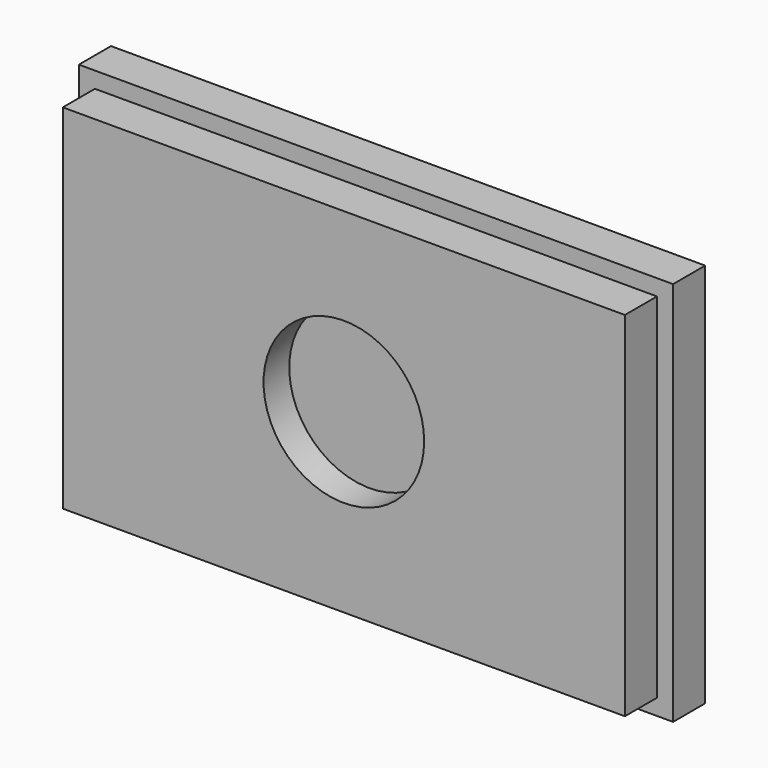
from build123d import *

# Parameters (mm, degrees)
F0_W     = 37
F0_H     = 24
F1_DEPTH = 2.5
F2_W     = 35
F2_H     = 22
F3_DEPTH = 2.5
F4_R     = 5
F5_DEPTH = 2


with BuildPart() as f1:
    # F0 (on Front) → F1 (new body)
    with BuildSketch(Plane.XZ):
        Rectangle(F0_W, F0_H)
    extrude(amount=F1_DEPTH)

    # F2 (on face) → F3 (join)
    with BuildSketch(Plane.XZ.offset(2.5)):
        Rectangle(F2_W, F2_H)
    extrude(amount=F3_DEPTH)

    # F4 (on face) → F5 (cut)
    with BuildSketch(Plane.XZ.offset(5)):
        Circle(F4_R)
    extrude(amount=-F5_DEPTH, mode=Mode.SUBTRACT)


solid = f1.part
